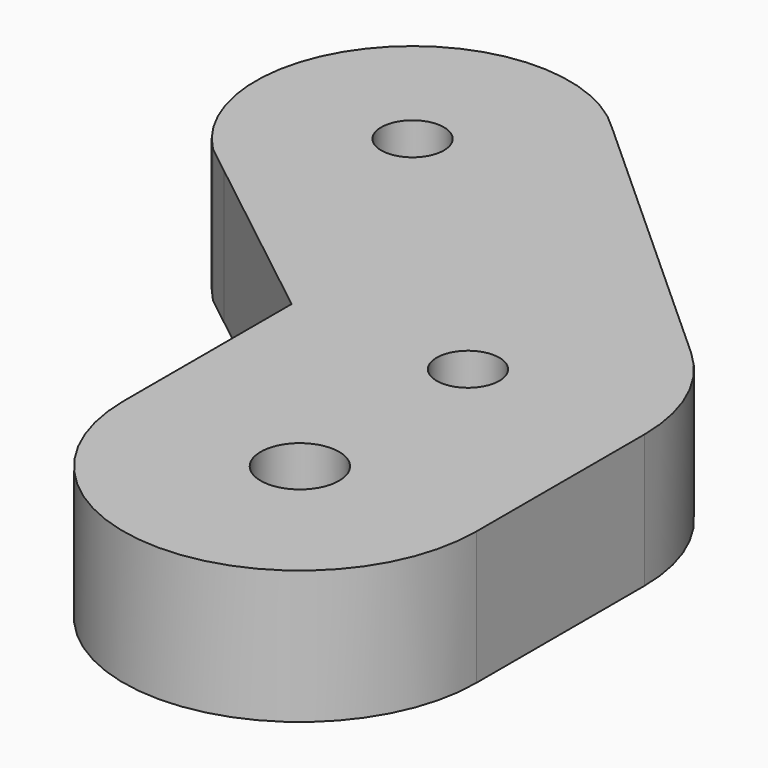
from build123d import *

# Parameters (mm, degrees)
F0_R     = 5
F0_R_2   = 4
F1_DEPTH = 8.5


with BuildPart() as f1:
    # F0 (on Top) → F1 (new body, symmetric)
    with BuildSketch(Plane.XY):
        with BuildLine():
            Line((15.090626, 16.689009), (-21.443711, 49.724285))
            ThreePointArc((-21.443711, 49.724285), (-49.611346, 49.382679), (-49.497475, 21.213203))
            Line((-49.497475, 21.213203), (-45.750738, 18.269213))
            Line((-45.750738, 18.269213), (-22.5, 0))
            Line((-22.5, 0), (-22.5, -26.8))
            ThreePointArc((-22.5, -26.8), (0, -49.3), (22.5, -26.8))
            Line((22.5, -26.8), (22.5, 0))
            ThreePointArc((22.5, 0), (20.5644, 9.129921), (15.090626, 16.689009))
        make_face()
        with Locations((0, -26.8)):
            Circle(F0_R, mode=Mode.SUBTRACT)
        Circle(F0_R_2, mode=Mode.SUBTRACT)
        with Locations((-35.355339, 35.355339)):
            Circle(F0_R_2, mode=Mode.SUBTRACT)
    extrude(amount=F1_DEPTH, both=True)


solid = f1.part
